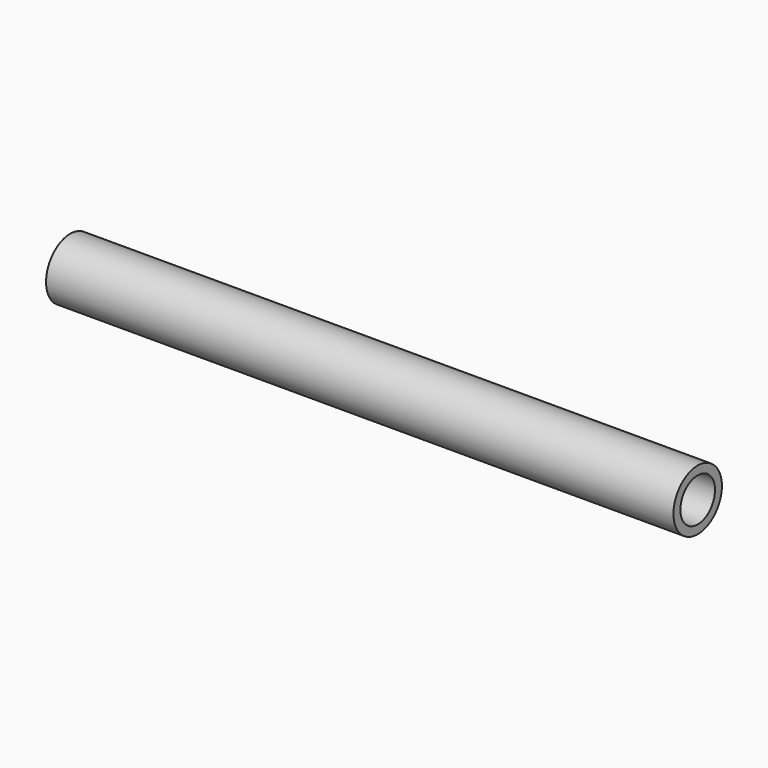
from build123d import *

# Parameters (mm, degrees)
F0_R     = 8.89
F1_DEPTH = 184.15
F3_D     = 12.7


with BuildPart() as f1:
    # F0 (on Right) → F1 (new body)
    with BuildSketch(Plane.YZ):
        Circle(F0_R)
    extrude(amount=-F1_DEPTH)

    # F3 (through all)
    with Locations(Plane.YZ):
        with Locations((0, 0)):
            Hole(F3_D / 2)


solid = f1.part
